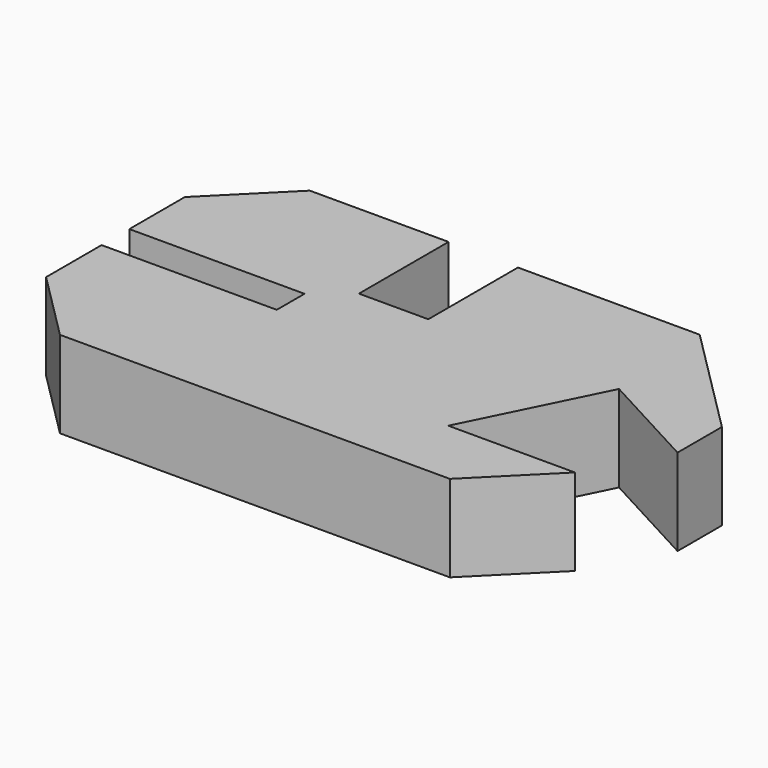
from build123d import *

# Parameters (mm, degrees)
F1_DEPTH = 25


with BuildPart() as f1:
    # F0 (on Top) → F1 (new body)
    with BuildSketch(Plane.XY):
        Polygon((-108.412588, -9.348679), (-88.401466, -29.3598), (23.998534, -29.3598), (44.009656, -9.348679), (7.532283, -9.348679), (26.350087, 28.651321), (56.009656, 12.651321), (56.009656, 28.651321), (23.998534, 60.662443), (-28.401466, 60.662443), (-28.401466, 28.362443), (-48.401466, 28.362443), (-48.401466, 60.662443), (-88.401466, 60.662443), (-108.412588, 40.651321), (-108.412588, 20.651321), (-57.912588, 20.651321), (-57.912588, 10.651321), (-108.412588, 10.651321), align=None)
    extrude(amount=F1_DEPTH)


solid = f1.part
